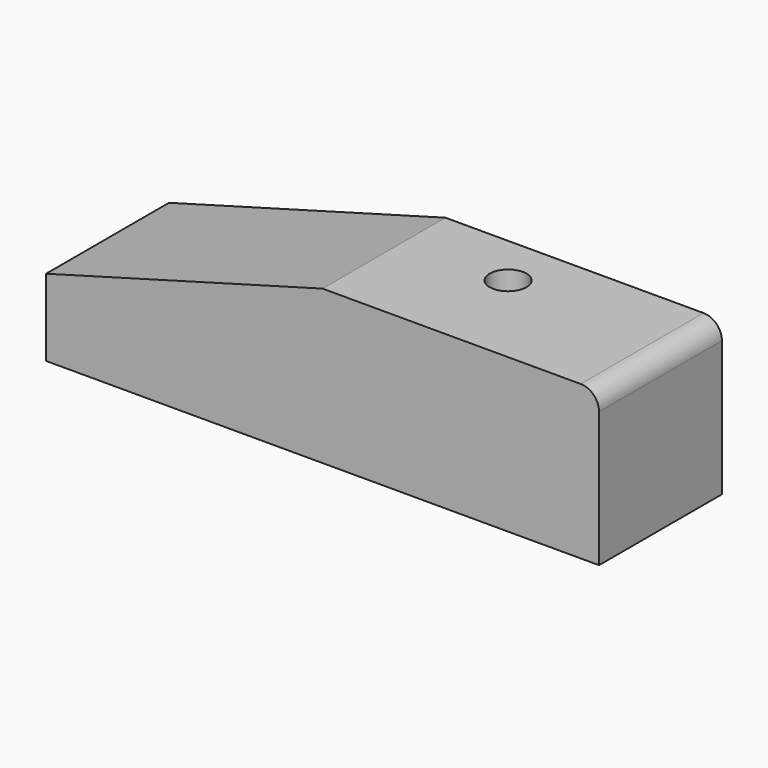
from build123d import *

# Parameters (mm, degrees)
F1_DEPTH = 50
F3_D     = 12
F3_DEPTH = 25
F3_TIP   = 3.6051637142


with BuildPart() as f1:
    # F0 (on Front) → F1 (new body)
    with BuildSketch(Plane.XZ):
        with BuildLine():
            Line((-90, 0), (-90, -25))
            Line((-90, -25), (90, -25))
            Line((90, -25), (90, 19))
            ThreePointArc((90, 19), (88.2426406871, 23.2426406871), (84, 25))
            Line((84, 25), (0, 25))
            Line((0, 25), (-90, 0))
        make_face()
    extrude(amount=F1_DEPTH)

    # F3
    with Locations(Plane.XY.offset(25)):
        with Locations((34, -17)):
            Hole(F3_D / 2, depth=F3_DEPTH)
            with Locations((0, 0, -(F3_DEPTH + F3_TIP / 2))):  # 118° drill point
                Cone(0, F3_D / 2, F3_TIP, mode=Mode.SUBTRACT)


solid = f1.part
